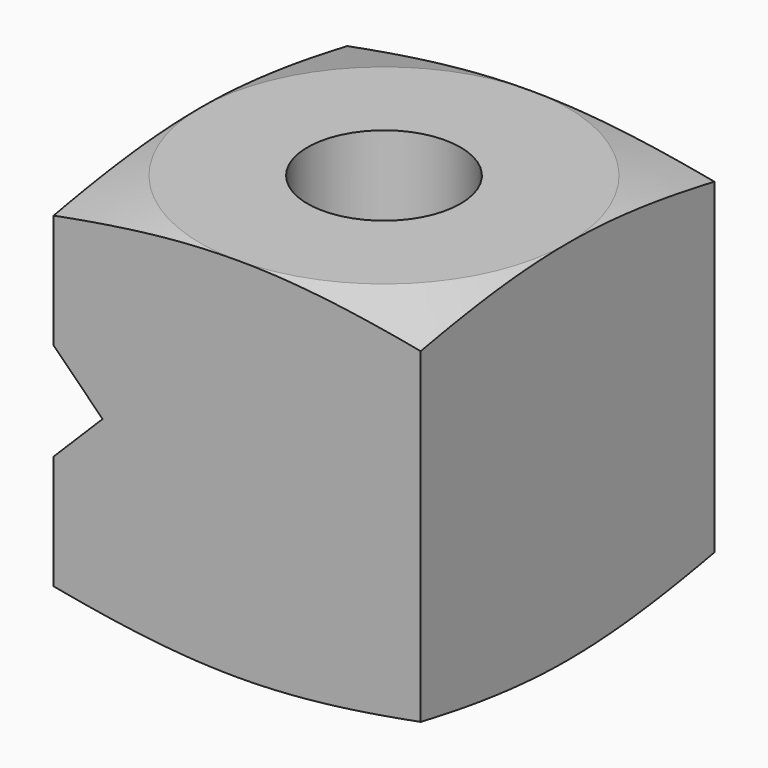
from build123d import *

# Parameters (mm, degrees)
F0_W      = 19.05
F0_H      = 19.05
F1_DEPTH  = 19.05
F2_R      = 3.96875
F3_DEPTH  = 25.4
F11_DEPTH = 25.4


with BuildPart() as f1:
    # F0 (on Top) → F1 (new body)
    with BuildSketch(Plane.XY):
        Rectangle(F0_W, F0_H)
    extrude(amount=F1_DEPTH)

    # F2 (on face) → F3 (cut)
    with BuildSketch(Plane.XY.offset(19.05)):
        Circle(F2_R)
    extrude(amount=-F3_DEPTH, mode=Mode.SUBTRACT)

    # F6 (on offset) → F7 (revolve, cut)
    with BuildSketch(Plane.YZ):
        Polygon((23.9277048558, 3.8591931349), (9.525, 0), (23.9277048558, 0), align=None)
    revolve(axis=Axis((0, 0, 0), (0, 0, -1)), mode=Mode.SUBTRACT)

    # F8 (on offset) → F9 (revolve, cut)
    with BuildSketch(Plane.YZ):
        Polygon((19.2026580361, 19.05), (9.525, 19.05), (19.2026580361, 16.4568793446), align=None)
    revolve(axis=Axis((0, 0, 19.05), (0, 0, 1)), mode=Mode.SUBTRACT)

    # F10 (on face) → F11 (cut)
    with BuildSketch(Plane.XZ.offset(9.525)):
        Polygon((-9.525, 12.065), (-9.525, 9.525), (-6.985, 9.525), align=None)
        Polygon((-6.985, 9.525), (-9.525, 9.525), (-9.525, 6.985), align=None)
    extrude(amount=-F11_DEPTH, mode=Mode.SUBTRACT)


solid = f1.part
